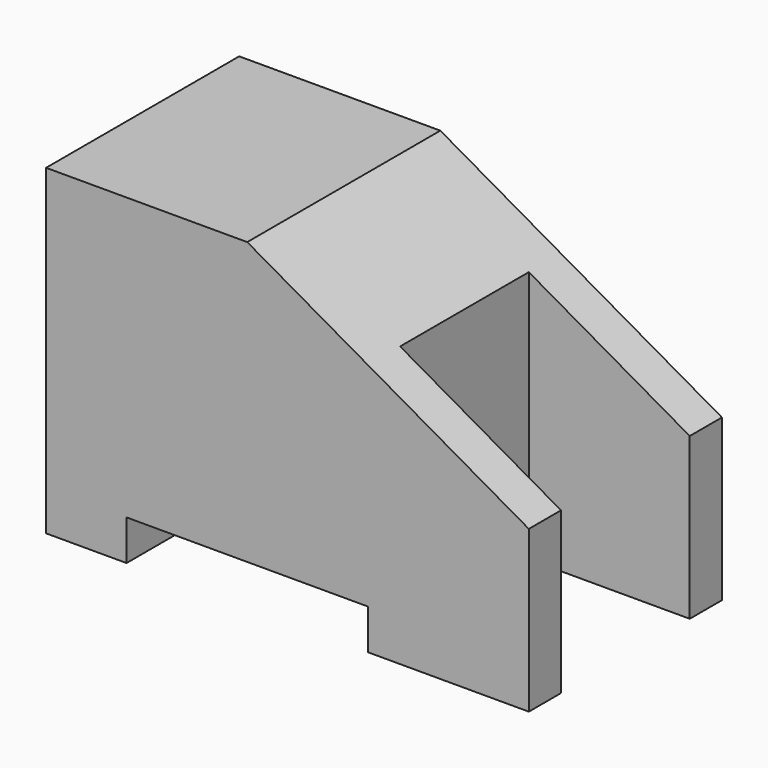
from build123d import *

# Parameters (mm, degrees)
F1_DEPTH = 15
F2_W     = 10
F2_H     = 10
F3_DEPTH = 20.001


with BuildPart() as f1:
    # F0 (on Front) → F1 (new body)
    with BuildSketch(Plane.XZ):
        Polygon((0, 20), (0, 0), (5, 0), (5, 2.5), (20, 2.5), (20, 0), (30, 0), (30, 10), (12.5, 20), align=None)
    extrude(amount=F1_DEPTH)

    # F2 (on face) → F3 (cut, through all)
    with BuildSketch(Plane.XY.offset(20)):
        with Locations((25, -7.5)):
            Rectangle(F2_W, F2_H)
    extrude(amount=-F3_DEPTH, mode=Mode.SUBTRACT)


solid = f1.part
